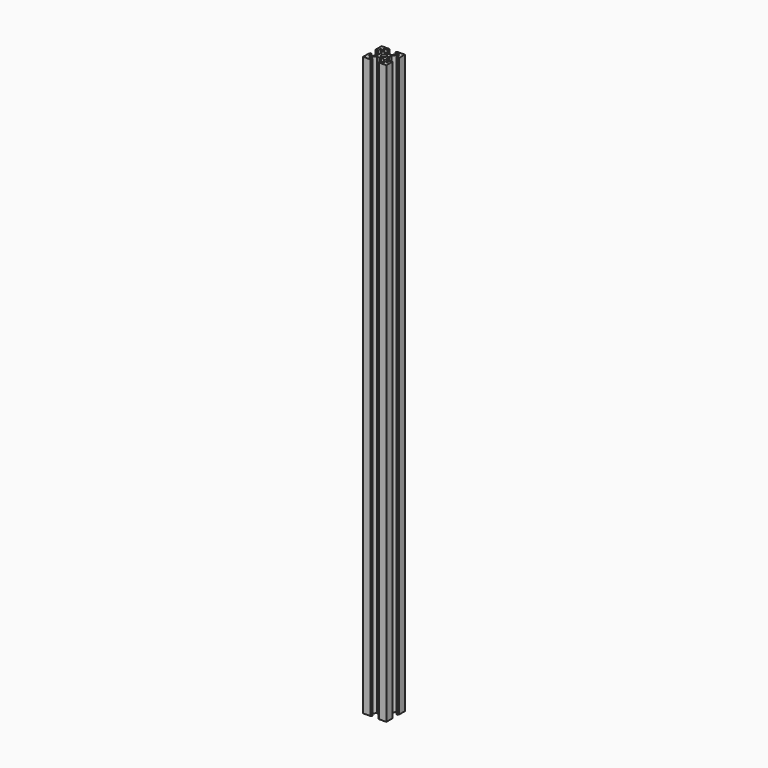
from build123d import *

# Parameters (mm, degrees)
F2_DEPTH = 500
F3_SIZE  = 0.5


with BuildPart() as f2:
    # F1 (on Top) → F2 (new body)
    with BuildSketch(Plane.XY):
        with BuildLine():
            Line((0, 4), (0, 2.1))
            ThreePointArc((0, 2.1), (1.4849242405, 1.4849242405), (2.1, 0))
            Line((2.1, 0), (4, 0))
            Line((4, 0), (4, 3))
            Line((4, 3), (7.5, 6.5))
            Line((7.5, 6.5), (8, 6.5))
            Line((8, 6.5), (8, 3))
            Line((8, 3), (10, 3))
            Line((10, 3), (10, 10))
            Line((10, 10), (3, 10))
            Line((3, 10), (3, 8))
            Line((3, 8), (6.5, 8))
            Line((6.5, 8), (6.5, 7.5))
            Line((6.5, 7.5), (3, 4))
            Line((3, 4), (0, 4))
        make_face()
    extrude(amount=F2_DEPTH)

    # F3
    f3_edges = [f2.edges().sort_by_distance(p)[0] for p in [
        (0, 4, 250),
        (4, 0, 250),
        (3, 8, 250),
        (8, 3, 250),
        (10, 3, 250),
        (3, 10, 250),
    ]]
    chamfer(f3_edges, length=F3_SIZE)

    # F4: F2 across face


with BuildPart() as f2_1:
    add(f2.part)
    add(f2.part.mirror(Plane(origin=(0, 2.8, 250), x_dir=(0, -1, 0), z_dir=(-1, 0, 0))))

    # F5: F2 across face


with BuildPart() as f2_2:
    add(f2_1.part)
    add(f2_1.part.mirror(Plane(origin=(-2.8, 0, 250), x_dir=(1, 0, 0), z_dir=(0, -1, 0))))


solid = f2_2.part
